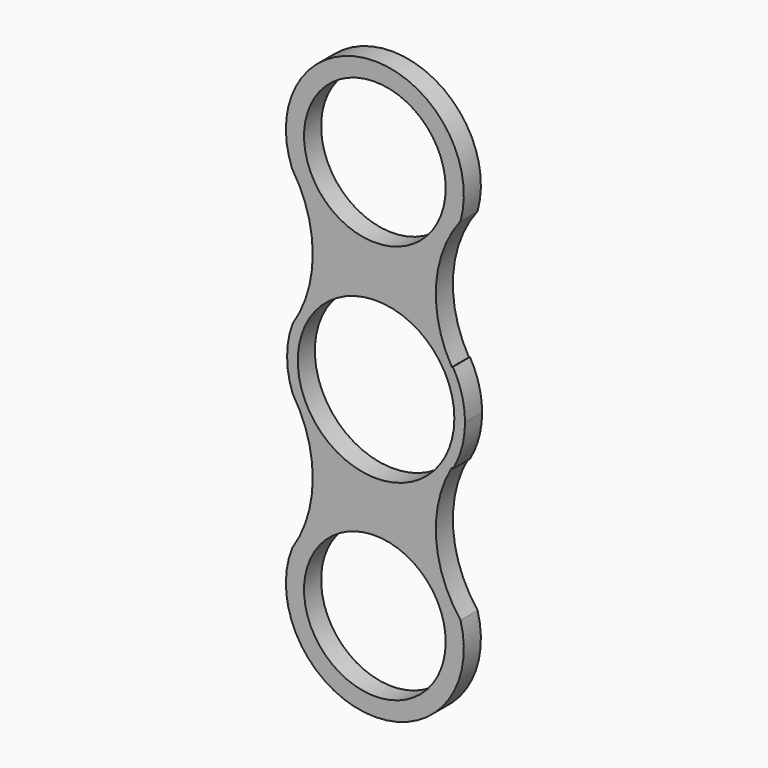
from build123d import *

# Parameters (mm, degrees)
F0_R     = 9.95
F1_DEPTH = 3


with BuildPart() as f1:
    # F0 (on Front) → F1 (new body)
    with BuildSketch(Plane.XZ):
        with BuildLine():
            ThreePointArc((10.645955, 6.215041), (8.427695, 15.635866), (11.865072, 24.683356))
            ThreePointArc((11.865072, 24.683356), (-0.810737, 40.545819), (-11.794746, 23.468191))
            ThreePointArc((-11.794746, 23.468191), (-8.896987, 13.897614), (-11.733885, 4.308821))
            ThreePointArc((-11.733885, 4.308821), (-12.306981, 2.188199), (-12.5, 0))
            ThreePointArc((-12.5, 0), (-12.306981, -2.188199), (-11.733885, -4.308821))
            ThreePointArc((-11.733885, -4.308821), (-8.896987, -13.897614), (-11.794746, -23.468191))
            ThreePointArc((-11.794746, -23.468191), (-0.810737, -40.545819), (11.865072, -24.683356))
            ThreePointArc((11.865072, -24.683356), (8.427695, -15.635866), (10.645955, -6.215041))
            Line((10.645955, -6.215041), (10.795073, -6.302095))
            ThreePointArc((10.795073, -6.302095), (12.066242, -3.264322), (12.5, 0))
            ThreePointArc((12.5, 0), (12.066242, 3.264322), (10.795073, 6.302095))
            Line((10.795073, 6.302095), (10.645955, 6.215041))
        make_face()
        with Locations((-0.169583, -28.062273)):
            Circle(F0_R, mode=Mode.SUBTRACT)
        with Locations((-0.169583, 28.062273)):
            Circle(F0_R, mode=Mode.SUBTRACT)
        with BuildLine():
            ThreePointArc((-11, 0), (0, 11), (11, 0))
            ThreePointArc((11, 0), (0, -11), (-11, 0))
        make_face(mode=Mode.SUBTRACT)
    extrude(amount=F1_DEPTH)


solid = f1.part
